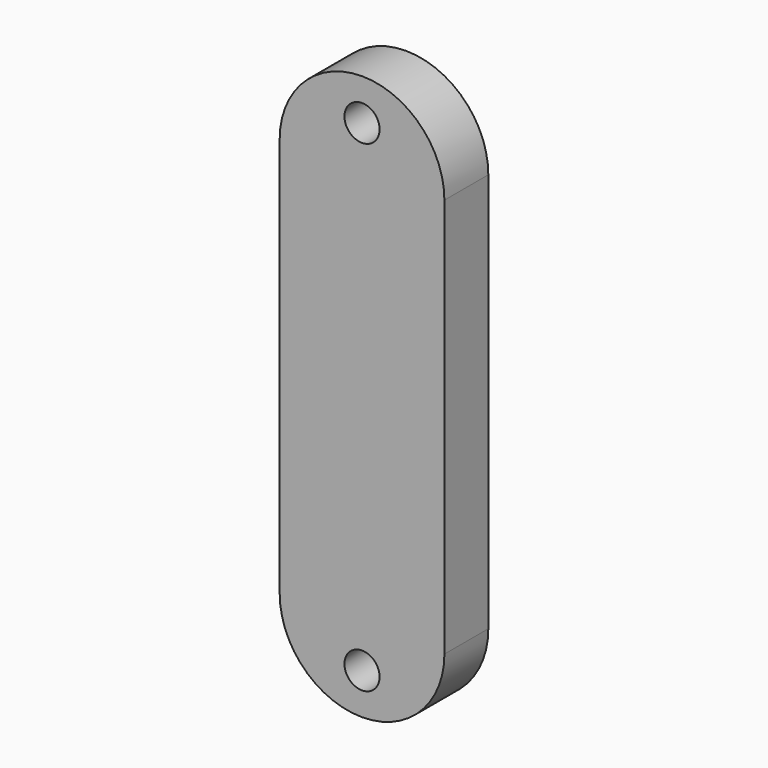
from build123d import *

# Parameters (mm, degrees)
F0_R     = 1.6
F0_W     = 15
F0_H     = 36.39
F1_DEPTH = 5


with BuildPart() as f1:
    # F0 (on Front) → F1 (new body)
    with BuildSketch(Plane.XZ):
        with BuildLine():
            Line((-7.5, 18.195), (7.5, 18.195))
            ThreePointArc((7.5, 18.195), (0, 25.695), (-7.5, 18.195))
        make_face()
        with Locations((0, 21.945)):
            Circle(F0_R, mode=Mode.SUBTRACT)
        Rectangle(F0_W, F0_H)
        with BuildLine():
            ThreePointArc((-7.5, -18.195), (0, -25.695), (7.5, -18.195))
            Line((7.5, -18.195), (-7.5, -18.195))
        make_face()
        with Locations((0, -21.945)):
            Circle(F0_R, mode=Mode.SUBTRACT)
    extrude(amount=-F1_DEPTH)


solid = f1.part
